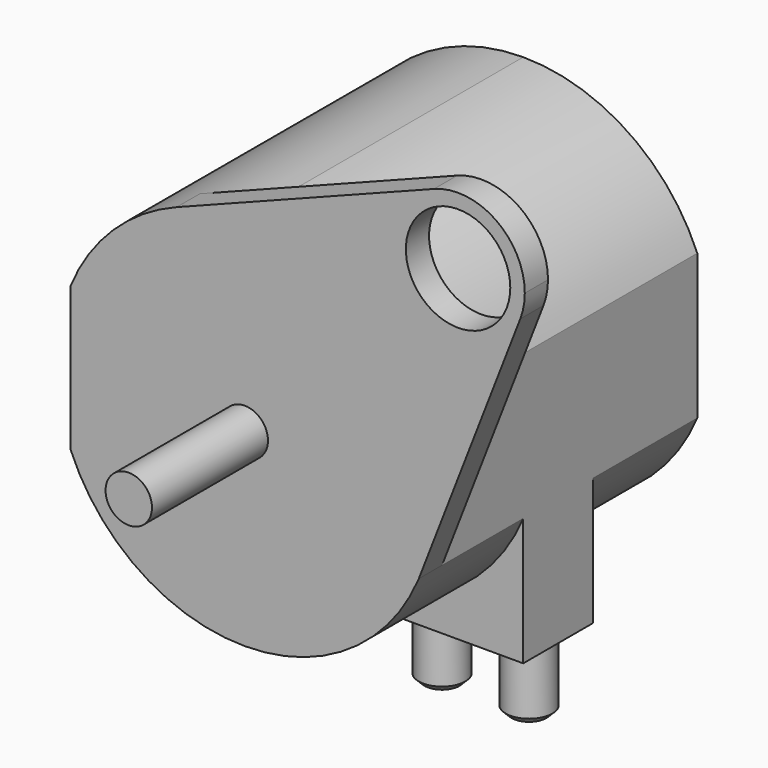
from build123d import *

# Parameters (mm, degrees)
F1_DEPTH  = 6
F2_R      = 0.4
F3_DEPTH  = 2.5
F4_R      = 0.9
F5_DEPTH  = 0.5
F7_W      = 6
F7_H      = 2.2
F8_DEPTH  = 0.75
F9_R      = 0.4
F10_DEPTH = 1.2
F11_SIZE  = 0.1


with BuildPart() as f1:
    # F0 (on Front) → F1 (new body)
    with BuildSketch(Plane.XZ):
        with BuildLine():
            ThreePointArc((3, 1.25), (1.8027756377, 2.7041634566), (0, 3.25))
            ThreePointArc((0, 3.25), (-1.8027756377, 2.7041634566), (-3, 1.25))
            Line((-3, 1.25), (-3, -1.25))
            ThreePointArc((-3, -1.25), (-1.8027756377, -2.7041634566), (0, -3.25))
            ThreePointArc((0, -3.25), (1.8027756377, -2.7041634566), (3, -1.25))
            Line((3, -1.25), (3, 1.25))
        make_face()
    extrude(amount=-F1_DEPTH)

    # F2 (on face) → F3 (join)
    with BuildSketch(Plane.XZ):
        Circle(F2_R)
    extrude(amount=F3_DEPTH)

    # F4 (on face) → F5 (join)
    with BuildSketch(Plane.XZ):
        with BuildLine():
            ThreePointArc((4.7492643315, 3.2614396069), (2.8637824638, 2.8637824638), (3.2614396069, 4.7492643315))
            Line((3.2614396069, 4.7492643315), (-1.1742833736, 3.0304386743))
            ThreePointArc((-1.1742833736, 3.0304386743), (1.2750689268, 2.9894312556), (3, 1.25))
            Line((3, 1.25), (3, -1.25))
            Line((3, -1.25), (4.7492643315, 3.2614396069))
        make_face()
        with BuildLine():
            ThreePointArc((4.7492643315, 3.2614396069), (4.8073656809, 3.4655970706), (4.8269552622, 3.6769552622))
            ThreePointArc((4.8269552622, 3.6769552622), (4.3268233243, 4.6257289453), (3.2614396069, 4.7492643315))
            ThreePointArc((3.2614396069, 4.7492643315), (2.8637824638, 2.8637824638), (4.7492643315, 3.2614396069))
        make_face()
        with Locations((3.6769552622, 3.6769552622)):
            Circle(F4_R, mode=Mode.SUBTRACT)
    extrude(amount=-F5_DEPTH)


with BuildPart() as f1_1:
    # F6: moved
    add(f1.part.moved(Location((0, -3, 0))))

    # F7 (on Front) → F8 (join, symmetric)
    with BuildSketch(Plane.XZ):
        with Locations((0, -2.35)):
            Rectangle(F7_W, F7_H)
    extrude(amount=F8_DEPTH, both=True)

    # F9 (on face) → F10 (join)
    with BuildSketch(Plane(origin=(0, 0, -3.45), x_dir=(1, 0, 0), z_dir=(0, 0, -1))):
        with Locations((-2.5, 0)):
            Circle(F9_R)
        with Locations((-1, 0)):
            Circle(F9_R)
        with Locations((1, 0)):
            Circle(F9_R)
        with Locations((2.5, 0)):
            Circle(F9_R)
    extrude(amount=F10_DEPTH)

    # F11
    f11_edges = [f1_1.edges().sort_by_distance(p)[0] for p in [
        (-2.9, 0, -4.65),
        (-1.4, 0, -4.65),
        (0.6, 0, -4.65),
        (2.1, 0, -4.65),
    ]]
    chamfer(f11_edges, length=F11_SIZE)


solid = f1_1.part
